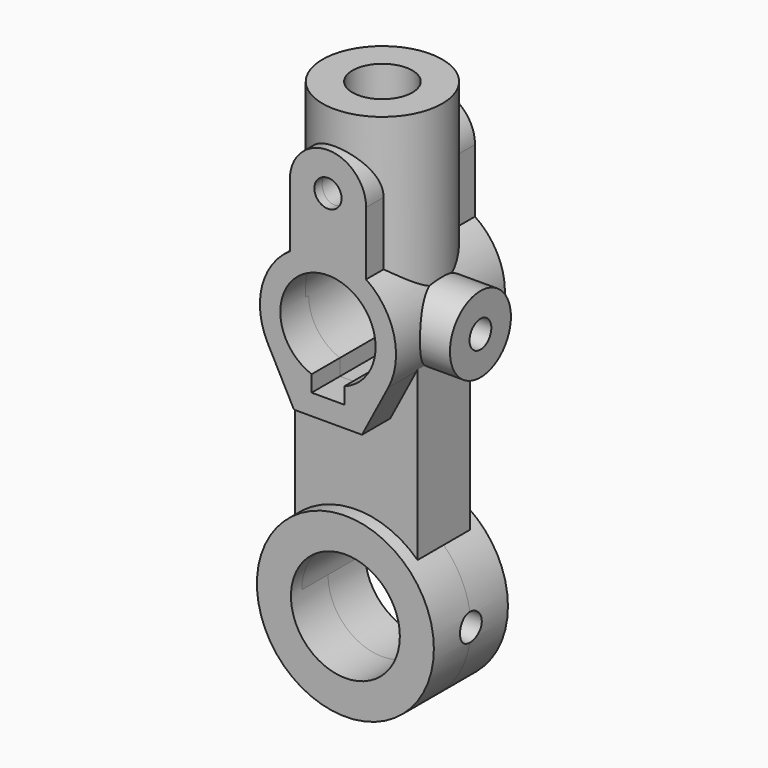
from build123d import *

# Parameters (mm, degrees)
F0_R          = 5
F1_DEPTH      = 25
F1_DEPTH_BACK = 25
F2_W          = 45
F2_H          = 24
F3_DEPTH      = 96
F4_R          = 32.5
F4_R_2        = 20
F5_DEPTH      = 17
F5_DEPTH_BACK = 17
F6_R          = 22
F6_R_2        = 11
F7_DEPTH      = 70
F9_R          = 14
F11_R         = 5
F11_R_2       = 20
F12_DEPTH     = 50.0010001
F13_R         = 11
F14_DEPTH     = 60
F15_R         = 5
F16_DEPTH     = 25


with BuildPart() as f1:
    # F0 (on Front) → F1 (new body, two sides)
    with BuildSketch(Plane.XZ) as f1_sk:
        with BuildLine():
            Line((14, 20.7123151772), (14, 44))
            ThreePointArc((14, 44), (0, 58), (-14, 44))
            Line((-14, 44), (-14, 20.7123151772))
            ThreePointArc((-14, 20.7123151772), (-24.2425849895, 6.1071329628), (-22.1419358513, -11.6075267286))
            Line((-22.1419358513, -11.6075267286), (-12.5, -30))
            Line((-12.5, -30), (0, -30))
            Line((0, -30), (12.5, -30))
            Line((12.5, -30), (22.1419358513, -11.6075267286))
            ThreePointArc((22.1419358513, -11.6075267286), (24.2425849895, 6.1071329628), (14, 20.7123151772))
        make_face()
        with BuildLine():
            ThreePointArc((-6, -16.4392822228), (0, 17.5), (6, -16.4392822228))
            Line((6, -16.4392822228), (6, -22.4))
            Line((6, -22.4), (0, -22.4))
            Line((0, -22.4), (-6, -22.4))
            Line((-6, -22.4), (-6, -16.4392822228))
        make_face(mode=Mode.SUBTRACT)
        with Locations((0, 44)):
            Circle(F0_R, mode=Mode.SUBTRACT)
    extrude(amount=F1_DEPTH)
    extrude(f1_sk.sketch, amount=-F1_DEPTH_BACK)

    # F2 (on Top) → F3 (join)
    with BuildSketch(Plane.XY):
        Rectangle(F2_W, F2_H)
    extrude(amount=-F3_DEPTH)

    # F4 (on Front) → F5 (join, two sides)
    with BuildSketch(Plane.XZ) as f5_sk:
        with Locations((0, -96)):
            Circle(F4_R)
        with Locations((0, -96)):
            Circle(F4_R_2, mode=Mode.SUBTRACT)
    extrude(amount=F5_DEPTH)
    extrude(f5_sk.sketch, amount=-F5_DEPTH_BACK)

    # F6 (on Top) → F7 (join)
    with BuildSketch(Plane.XY):
        Circle(F6_R)
        Circle(F6_R_2, mode=Mode.SUBTRACT)
    extrude(amount=F7_DEPTH)

    # F9 (on offset) → F10 (join, up to the next surface of F1)
    with BuildSketch(Plane.YZ.offset(36)):
        Circle(F9_R)
    extrude(until=Until.NEXT, dir=(-1, 0, 0))

    # F11 (on face) → F12 (cut, through all)
    with BuildSketch(Plane.XZ.offset(25)):
        with Locations((0, 44)):
            Circle(F11_R)
        with BuildLine():
            Line((6, -22.4), (6, -16.4392822228))
            ThreePointArc((6, -16.4392822228), (0, 17.5), (-6, -16.4392822228))
            Line((-6, -16.4392822228), (-6, -22.4))
            Line((-6, -22.4), (6, -22.4))
        make_face()
        with Locations((0, -96)):
            Circle(F11_R_2)
    extrude(amount=-F12_DEPTH, mode=Mode.SUBTRACT)

    # F13 (on face) → F14 (cut)
    with BuildSketch(Plane.XY.offset(70)):
        Circle(F13_R)
    extrude(amount=-F14_DEPTH, mode=Mode.SUBTRACT)

    # F15 (on face) → F16 (cut)
    with BuildSketch(Plane.YZ.offset(36)):
        Circle(F15_R)
        with Locations((0, -96)):
            Circle(F15_R)
    extrude(amount=-F16_DEPTH, mode=Mode.SUBTRACT)


solid = f1.part
